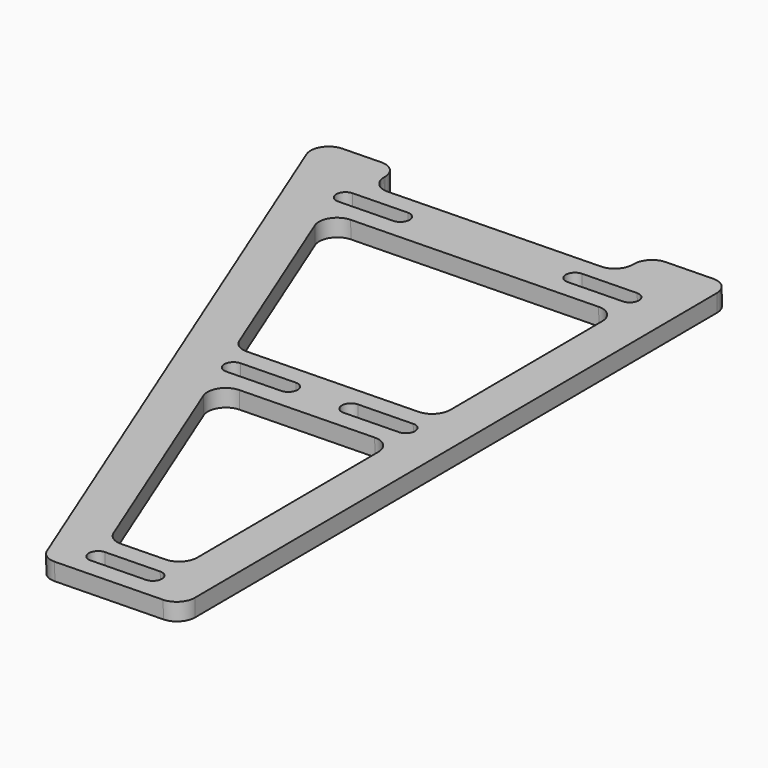
from build123d import *

# Parameters (mm, degrees)
PAD_DEPTH              = 6.25
FILLET_R               = 6.4
MIRROR_ROLL_ANGLE      = -179.860361
MIRROR_PITCH_ANGLE     = 0.86933
MIRROR_PLACEMENT_ANGLE = 0.335531


with BuildPart() as body:
    # Sketch → Pad (new body)
    with BuildSketch(Plane.XY):
        Polygon((0, 250), (50, 250), (150, 0), (120, 0), (120, 13.2), (30, 13.2), (30, 0), (0, 0), align=None)
        Polygon((15, 230), (15, 135), (79.844506, 135), (41.844506, 230), align=None, mode=Mode.SUBTRACT)
        Polygon((15, 115), (15, 33.2), (120.564506, 33.2), (87.844506, 115), align=None, mode=Mode.SUBTRACT)
        with BuildLine():
            ThreePointArc((18, 243.25), (14.75, 240), (18, 236.75))
            Line((18, 236.75), (38, 236.75))
            ThreePointArc((38, 236.75), (41.25, 240), (38, 243.25))
            Line((38, 243.25), (18, 243.25))
        make_face(mode=Mode.SUBTRACT)
        with BuildLine():
            ThreePointArc((60.5, 128.25), (57.25, 125), (60.5, 121.75))
            Line((60.5, 121.75), (80.5, 121.75))
            ThreePointArc((80.5, 121.75), (83.75, 125), (80.5, 128.25))
            Line((80.5, 128.25), (60.5, 128.25))
        make_face(mode=Mode.SUBTRACT)
        with BuildLine():
            ThreePointArc((18, 128.25), (14.75, 125), (18, 121.75))
            Line((18, 121.75), (38, 121.75))
            ThreePointArc((38, 121.75), (41.25, 125), (38, 128.25))
            Line((38, 128.25), (18, 128.25))
        make_face(mode=Mode.SUBTRACT)
        with BuildLine():
            ThreePointArc((18, 26.45), (14.75, 23.2), (18, 19.95))
            Line((18, 19.95), (38, 19.95))
            ThreePointArc((38, 19.95), (41.25, 23.2), (38, 26.45))
            Line((38, 26.45), (18, 26.45))
        make_face(mode=Mode.SUBTRACT)
        with BuildLine():
            ThreePointArc((101, 26.45), (97.75, 23.2), (101, 19.95))
            Line((101, 19.95), (121, 19.95))
            ThreePointArc((121, 19.95), (124.25, 23.2), (121, 26.45))
            Line((121, 26.45), (101, 26.45))
        make_face(mode=Mode.SUBTRACT)
    extrude(amount=PAD_DEPTH)

    # Fillet
    fillet_edges = [body.edges().sort_by_distance(p)[0] for p in [
        (0, 0, 3.125),
        (50, 250, 3.125),
        (0, 250, 3.125),
        (150, 0, 3.125),
        (120, 0, 3.125),
        (30, 0, 3.125),
        (41.844506, 230, 3.125),
        (15, 230, 3.125),
        (87.844506, 115, 3.125),
        (15, 115, 3.125),
        (15, 135, 3.125),
        (15, 33.2, 3.125),
        (120.564506, 33.2, 3.125),
        (79.844506, 135, 3.125),
        (30, 13.2, 3.125),
        (120, 13.2, 3.125),
    ]]
    fillet(fillet_edges, radius=FILLET_R)


with BuildPart() as body_mirrored:
    # mirror: instance of Body
    add(body.part.mirror(Plane(origin=(159.181488, 124.226166, 5.790833), x_dir=(-0.001618, 0.999999, 0), z_dir=(-0.999887, -0.001617, 0.014919))))


with BuildPart() as body_mirrored_1:
    # mirror roll: moved
    add(body_mirrored.part.rotate(Axis((0, 0, 0), (1, 0, 0)), MIRROR_ROLL_ANGLE))


with BuildPart() as body_mirrored_2:
    # mirror pitch: moved
    add(body_mirrored_1.part.rotate(Axis((0, 0, 0), (0, 1, 0)), MIRROR_PITCH_ANGLE))


with BuildPart() as body_mirrored_3:
    # mirror placement: moved
    add(body_mirrored_2.part.moved(Location((-110.969424, 247.905415, 10.458181))).rotate(Axis((-110.969424, 247.905415, 10.458181), (0, 0, 1)), MIRROR_PLACEMENT_ANGLE))


solid = body_mirrored_3.part
